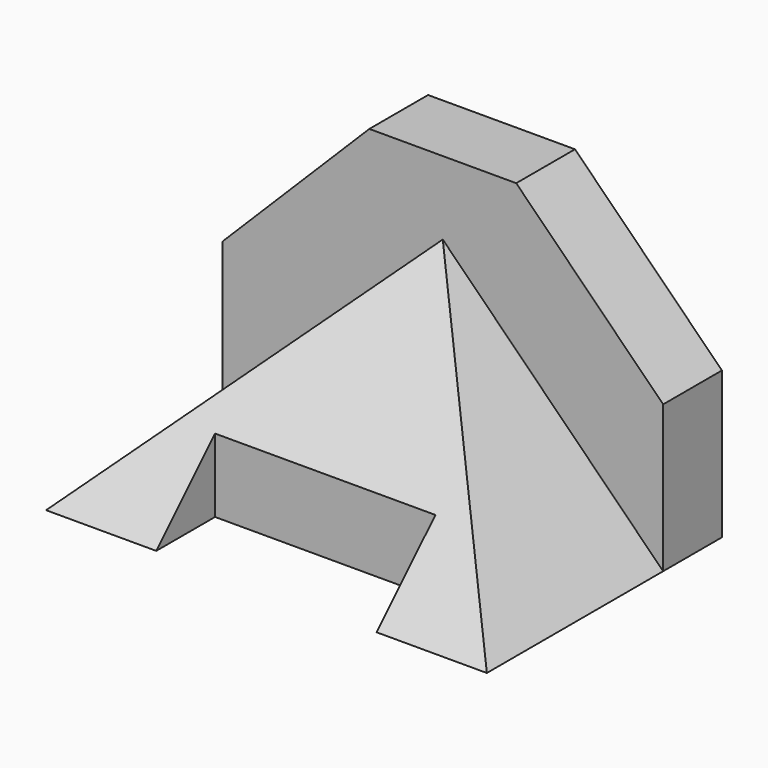
from build123d import *

# Parameters (mm, degrees)
F1_DEPTH  = 50.8
F3_DEPTH  = 38.1
F4_W      = 38.1
F4_H      = 12.7
F5_DEPTH  = 38.101
F7_DEPTH  = 76.201
F9_DEPTH  = 38.101
F11_DEPTH = 38.101


with BuildPart() as f1:
    # F0 (on Front) → F1 (new body)
    with BuildSketch(Plane.XZ):
        Polygon((-76.2, 0), (0, 0), (0, 25.4), (-25.4, 50.8), (-50.8, 50.8), (-76.2, 25.4), align=None)
    extrude(amount=-F1_DEPTH)

    # F2 (on face) → F3 (cut)
    with BuildSketch(Plane.XZ):
        Polygon((-50.8, 50.8), (-63.5, 38.1), (-12.7, 38.1), (-25.4, 50.8), align=None)
    extrude(amount=-F3_DEPTH, mode=Mode.SUBTRACT)

    # F4 (on face) → F5 (cut, through all)
    with BuildSketch(Plane.XY.offset(38.1)):
        with Locations((-38.1, 6.35)):
            Rectangle(F4_W, F4_H)
    extrude(amount=-F5_DEPTH, mode=Mode.SUBTRACT)

    # F6 (on face) → F7 (cut, through all)
    with BuildSketch(Plane.YZ):
        Polygon((0, 38.1), (0, 0), (38.1, 38.1), align=None)
    extrude(amount=-F7_DEPTH, mode=Mode.SUBTRACT)

    # F8 (on face) → F9 (cut, through all)
    with BuildSketch(Plane.XZ.offset(-38.1)):
        Polygon((-12.7, 38.1), (-38.1, 38.1), (0, 0), (0, 25.4), align=None)
    extrude(amount=F9_DEPTH, mode=Mode.SUBTRACT)

    # F10 (on face) → F11 (cut, through all)
    with BuildSketch(Plane.XZ.offset(-38.1)):
        Polygon((-76.2, 0), (-38.1, 38.1), (-63.5, 38.1), (-76.2, 25.4), align=None)
    extrude(amount=F11_DEPTH, mode=Mode.SUBTRACT)


solid = f1.part
